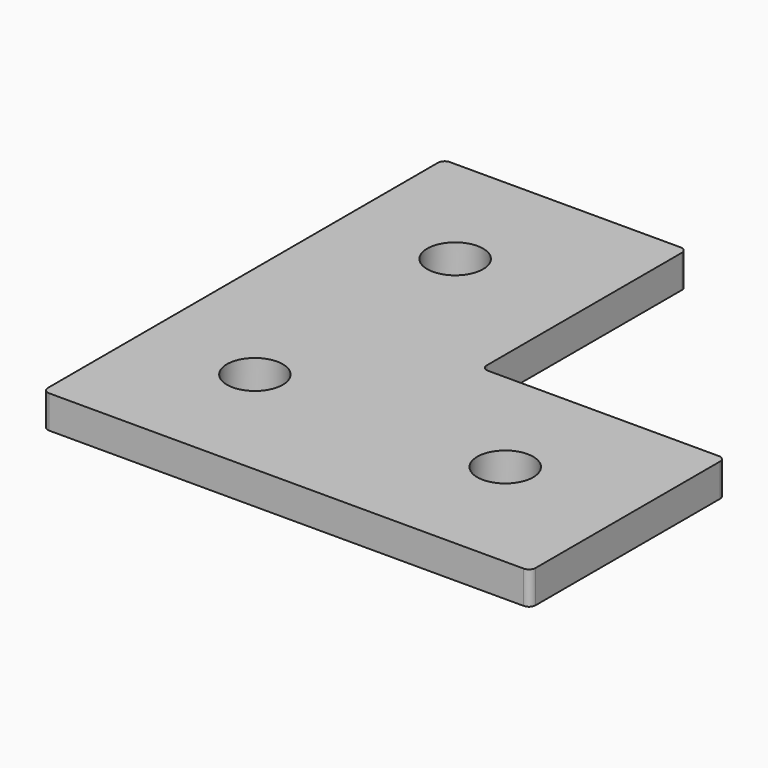
from build123d import *

# Parameters (mm, degrees)
SKETCH_R  = 4.25
PAD_DEPTH = 5


with BuildPart() as part:
    # Sketch → Pad (new body)
    with BuildSketch(Plane.XY):
        with BuildLine():
            Line((-73.2, 76.2), (-38.1, 76.2))
            ThreePointArc((-37.1, 75.2), (-37.392893, 75.907107), (-38.1, 76.2))
            Line((-37.1, 75.2), (-37.1, 38.1))
            ThreePointArc((-37.1, 38.1), (-36.807107, 37.392893), (-36.1, 37.1))
            Line((-36.1, 37.1), (-1, 37.1))
            ThreePointArc((0, 36.1), (-0.292893, 36.807107), (-1, 37.1))
            Line((0, 36.1), (0, 1))
            ThreePointArc((-1, 0), (-0.292893, 0.292893), (0, 1))
            Line((-1, 0), (-73.2, 0))
            ThreePointArc((-74.2, 1), (-73.907107, 0.292893), (-73.2, 0))
            Line((-74.2, 75.2), (-74.2, 1))
            ThreePointArc((-73.2, 76.2), (-73.907107, 75.907107), (-74.2, 75.2))
        make_face()
        with Locations((-19.05, 19.05)):
            Circle(SKETCH_R, mode=Mode.SUBTRACT)
        with Locations((-57.15, 19.05)):
            Circle(SKETCH_R, mode=Mode.SUBTRACT)
        with Locations((-57.15, 57.15)):
            Circle(SKETCH_R, mode=Mode.SUBTRACT)
    extrude(amount=PAD_DEPTH)


solid = part.part
